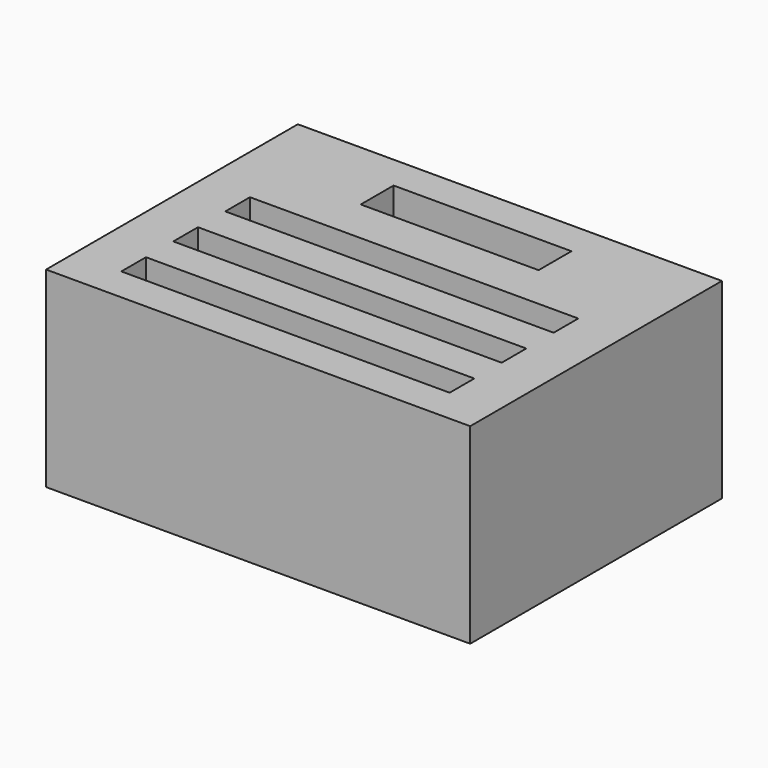
from build123d import *

# Parameters (mm, degrees)
F0_W     = 620
F0_H     = 460
F0_W_2   = 480
F0_H_2   = 45
F1_DEPTH = 280
F2_DEPTH = 250
F3_W     = 260
F3_H     = 60
F4_DEPTH = 40


with BuildPart() as f1:
    # F0 (on Top) → F1 (new body)
    with BuildSketch(Plane.XY):
        Rectangle(F0_W, F0_H)
        with Locations((0, -157.5)):
            Rectangle(F0_W_2, F0_H_2, mode=Mode.SUBTRACT)
        with Locations((0, -62.5)):
            Rectangle(F0_W_2, F0_H_2, mode=Mode.SUBTRACT)
        with Locations((0, 32.5)):
            Rectangle(F0_W_2, F0_H_2, mode=Mode.SUBTRACT)
        with Locations((0, 32.5)):
            Rectangle(F0_W_2, F0_H_2)
        with Locations((0, -62.5)):
            Rectangle(F0_W_2, F0_H_2)
        with Locations((0, -157.5)):
            Rectangle(F0_W_2, F0_H_2)
    extrude(amount=-F1_DEPTH)

    # F0 (on Top) → F2 (cut)
    with BuildSketch(Plane.XY):
        with Locations((0, 32.5)):
            Rectangle(F0_W_2, F0_H_2)
        with Locations((0, -62.5)):
            Rectangle(F0_W_2, F0_H_2)
        with Locations((0, -157.5)):
            Rectangle(F0_W_2, F0_H_2)
    extrude(amount=-F2_DEPTH, mode=Mode.SUBTRACT)

    # F3 (on face) → F4 (cut)
    with BuildSketch(Plane.XY):
        with Locations((0, 150)):
            Rectangle(F3_W, F3_H)
    extrude(amount=-F4_DEPTH, mode=Mode.SUBTRACT)


solid = f1.part
